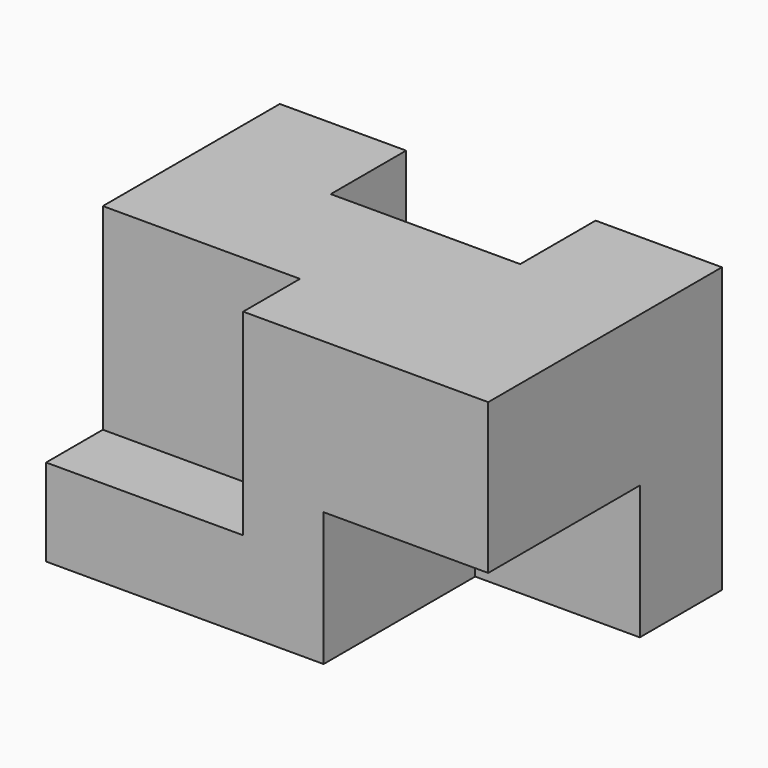
from build123d import *

# Parameters (mm, degrees)
F1_DEPTH = 35.9918
F2_W     = 24.003
F2_H     = 16.9418
F3_DEPTH = 20.8534
F4_W     = 24.9682
F4_H     = 8.9916
F5_DEPTH = 24.9428


with BuildPart() as f1:
    # F0 (on Top) → F1 (new body)
    with BuildSketch(Plane.XY):
        Polygon((28.0035, -18.5039), (28.0035, 18.5039), (12.0015, 18.5039), (12.0015, 6.5659), (-12.0015, 6.5659), (-12.0015, 18.5039), (-28.0035, 18.5039), (-28.0035, -18.5039), align=None)
    extrude(amount=F1_DEPTH)

    # F2 (on face) → F3 (cut)
    with BuildSketch(Plane.YZ.offset(28.0035)):
        with Locations((-6.5024, 8.4709)):
            Rectangle(F2_W, F2_H)
    extrude(amount=-F3_DEPTH, mode=Mode.SUBTRACT)

    # F4 (on face) → F5 (cut)
    with BuildSketch(Plane.XY.offset(35.9918)):
        with Locations((-15.5194, -14.0081)):
            Rectangle(F4_W, F4_H)
    extrude(amount=-F5_DEPTH, mode=Mode.SUBTRACT)


solid = f1.part
